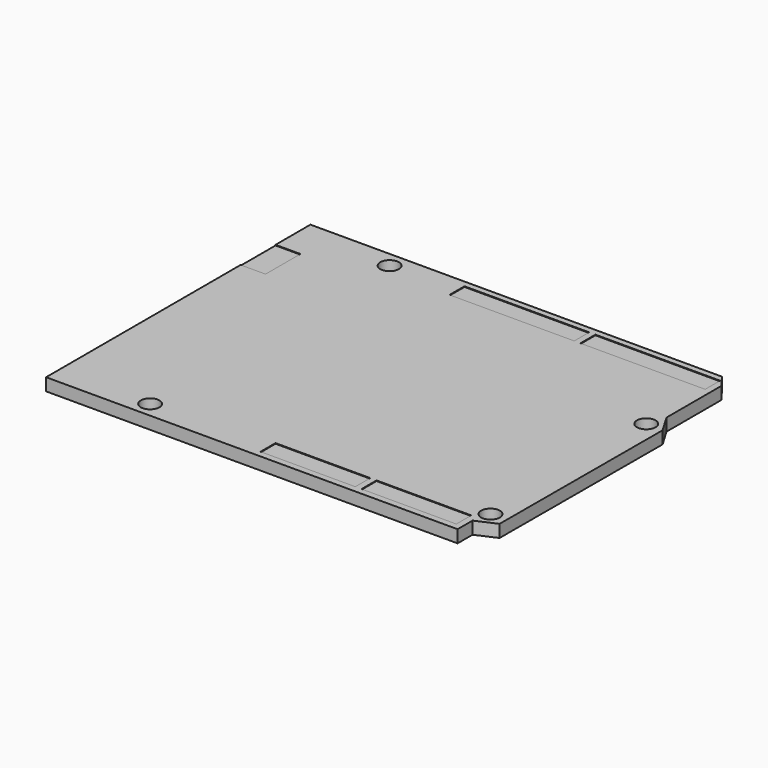
from build123d import *

# Parameters (mm, degrees)
F0_R     = 1.5
F1_DEPTH = 2
F0_W     = 4
F0_H     = 7
F2_DEPTH = 0.1
F3_DEPTH = 1.9
F4_W     = 20
F4_H     = 3
F5_DEPTH = 0.1
F4_W_2   = 15.2
F6_DEPTH = 0.1


with BuildPart() as f1:
    # F0 (on Top) → F1 (new body)
    with BuildSketch(Plane.XY):
        Polygon((-20, 26.5), (-33, 26.5), (-33, 19.5), (-29, 19.5), (-29, 12.5), (-33, 12.5), (-33, -26.5), (-20, -26.5), (33, -26.5), (33, -23.5), (36.198911, -22.0798), (36.284242, 10.5), (34.509105, 13.5), (34.509105, 24.5), (33, 26.5), align=None)
        with Locations((-18.304507, -24)):
            Circle(F0_R, mode=Mode.SUBTRACT)
        with Locations((33.657469, -20.717213)):
            Circle(F0_R, mode=Mode.SUBTRACT)
        with Locations((-18.304507, 24)):
            Circle(F0_R, mode=Mode.SUBTRACT)
        with Locations((33.600888, 10.583145)):
            Circle(F0_R, mode=Mode.SUBTRACT)
    extrude(amount=F1_DEPTH)

    # F0 (on Top) → F2 (cut)
    with BuildSketch(Plane.XY):
        with Locations((-31, 16)):
            Rectangle(F0_W, F0_H)
    extrude(amount=-F2_DEPTH, mode=Mode.SUBTRACT)

    # F0 (on Top) → F3 (join)
    with BuildSketch(Plane.XY):
        with Locations((-31, 16)):
            Rectangle(F0_W, F0_H)
    extrude(amount=F3_DEPTH)

    # F4 (on face) → F5 (cut)
    with BuildSketch(Plane.XY.offset(2)):
        with Locations((2.509105, 24)):
            Rectangle(F4_W, F4_H)
        with Locations((23.509105, 24)):
            Rectangle(F4_W, F4_H)
    extrude(amount=-F5_DEPTH, mode=Mode.SUBTRACT)

    # F4 (on face) → F6 (cut)
    with BuildSketch(Plane.XY.offset(2)):
        with Locations((8.2, -24)):
            Rectangle(F4_W_2, F4_H)
        with Locations((24.4, -24)):
            Rectangle(F4_W_2, F4_H)
    extrude(amount=-F6_DEPTH, mode=Mode.SUBTRACT)


solid = f1.part
